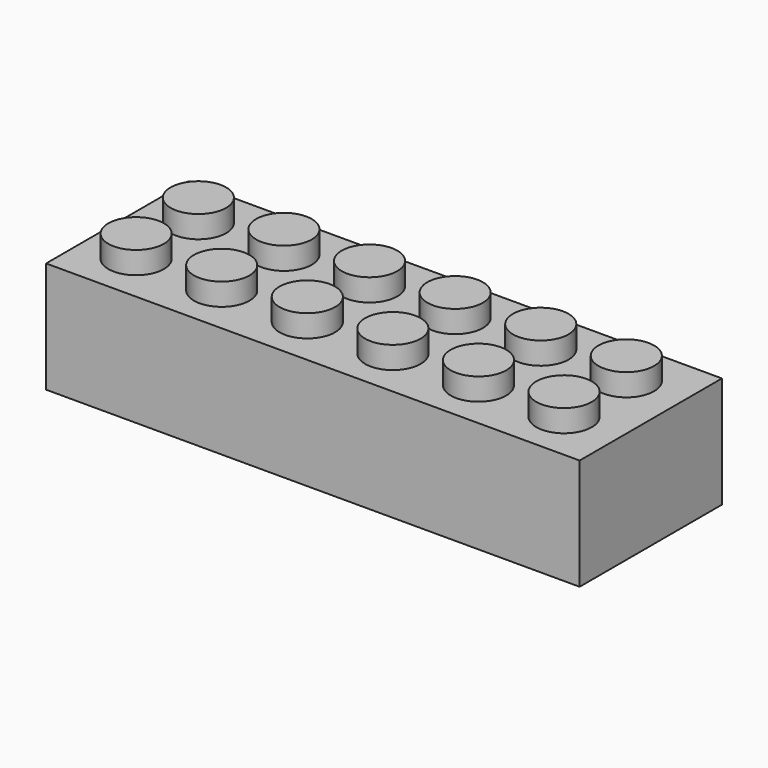
from build123d import *

# Parameters (mm, degrees)
F0_W     = 48
F0_H     = 16
F1_DEPTH = 10
F2_R     = 2.5
F3_DEPTH = 2


with BuildPart() as f1:
    # F0 (on Top) → F1 (new body)
    with BuildSketch(Plane.XY):
        with Locations((-27.653224, 19.365107)):
            Rectangle(F0_W, F0_H)
    extrude(amount=F1_DEPTH)

    # F2 (on face) → F3 (join)
    with BuildSketch(Plane.XY.offset(10)):
        with Locations((-47.153224, 22.865107)):
            Circle(F2_R)
        with Locations((-47.153224, 15.865107)):
            Circle(F2_R)
        with Locations((-39.453224, 15.865107)):
            Circle(F2_R)
        with Locations((-39.453224, 22.865107)):
            Circle(F2_R)
        with Locations((-31.753224, 22.865107)):
            Circle(F2_R)
        with Locations((-24.053224, 22.865107)):
            Circle(F2_R)
        with Locations((-16.353224, 22.865107)):
            Circle(F2_R)
        with Locations((-8.653224, 22.865107)):
            Circle(F2_R)
        with Locations((-8.653224, 15.865107)):
            Circle(F2_R)
        with Locations((-16.353224, 15.865107)):
            Circle(F2_R)
        with Locations((-24.053224, 15.865107)):
            Circle(F2_R)
        with Locations((-31.753224, 15.865107)):
            Circle(F2_R)
    extrude(amount=F3_DEPTH)


solid = f1.part
